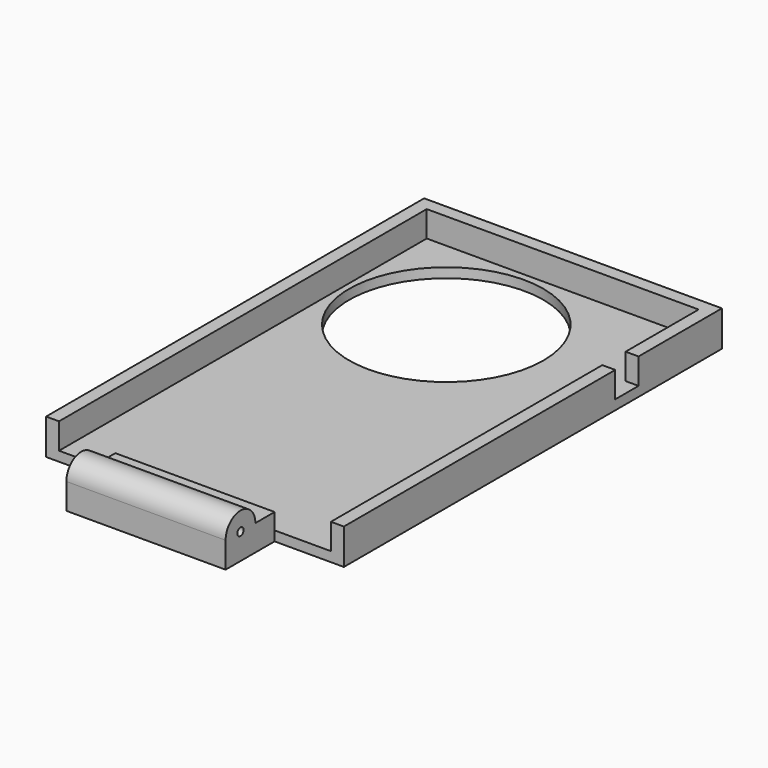
from build123d import *

# Parameters (mm, degrees)
F0_W      = 58.42
F0_H      = 92.71
F1_DEPTH  = 6.985
F2_W      = 53.34
F2_H      = 90.17
F3_DEPTH  = 5.08
F4_R      = 19.05
F5_DEPTH  = 25.4
F6_W      = 31.242
F6_H      = 12.0142
F7_DEPTH  = 5.08
F8_R      = 3.65125
F9_DEPTH  = 31.242
F10_R     = 0.762
F11_DEPTH = 38.1
F12_W     = 2.54
F12_H     = 5.715
F13_DEPTH = 5.08


with BuildPart() as f1:
    # F0 (on Top) → F1 (new body)
    with BuildSketch(Plane.XY):
        with Locations((5.7928592128, 9.0976799711)):
            Rectangle(F0_W, F0_H)
    extrude(amount=F1_DEPTH)

    # F2 (on face) → F3 (cut)
    with BuildSketch(Plane.XY.offset(6.985)):
        with Locations((5.7928592128, 7.8276799711)):
            Rectangle(F2_W, F2_H)
    extrude(amount=-F3_DEPTH, mode=Mode.SUBTRACT)

    # F4 (on face) → F5 (cut)
    with BuildSketch(Plane.XY.offset(1.905)):
        with Locations((-0.6841407872, 32.4656799711)):
            Circle(F4_R)
    extrude(amount=-F5_DEPTH, mode=Mode.SUBTRACT)

    # F6 (on face) → F7 (join)
    with BuildSketch(Plane(origin=(0, 0, 0), x_dir=(1, 0, 0), z_dir=(0, 0, -1))):
        with Locations((5.7928592128, 43.2644200289)):
            Rectangle(F6_W, F6_H)
    extrude(amount=-F7_DEPTH)

    # F8 (on face) → F9 (join)
    with BuildSketch(Plane(origin=(-9.8281407872, 0, 0), x_dir=(0, -1, 0), z_dir=(-1, 0, 0))):
        with Locations((45.6202700289, 5.08)):
            Circle(F8_R)
    extrude(amount=-F9_DEPTH)

    # F10 (on face) → F11 (cut)
    with BuildSketch(Plane(origin=(-9.8281407872, 0, 0), x_dir=(0, -1, 0), z_dir=(-1, 0, 0))):
        with Locations((45.6202700289, 5.08)):
            Circle(F10_R)
    extrude(amount=-F11_DEPTH, mode=Mode.SUBTRACT)

    # F12 (on face) → F13 (cut)
    with BuildSketch(Plane.XY.offset(6.985)):
        with Locations((33.7328592128, 32.1481799711)):
            Rectangle(F12_W, F12_H)
    extrude(amount=-F13_DEPTH, mode=Mode.SUBTRACT)


solid = f1.part
